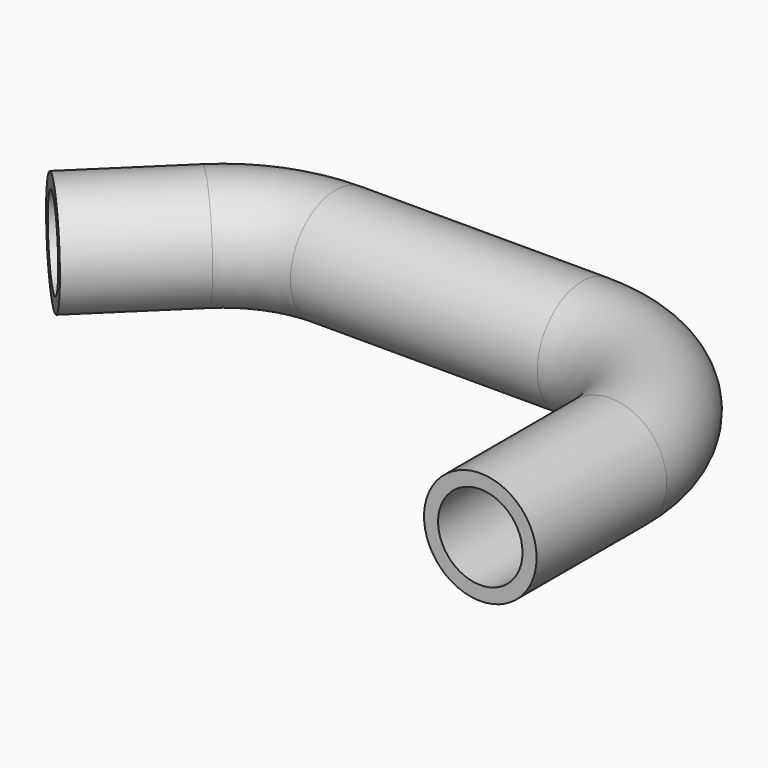
from build123d import *

# Parameters (mm, degrees)
F0_R   = 2.54
F0_R_2 = 1.905


with BuildPart() as f2:
    # F2: sweep along a path in F1
    with BuildLine(Plane.XY) as f2_path:
        Line((0, 0), (0, 7.3384581298))
        ThreePointArc((0, 7.3384581298), (-1.8598719395, 11.8285861903), (-6.35, 13.6884581298))
        Line((-6.35, 13.6884581298), (-12.5316856429, 13.6884581298))
        Line((-12.5316856429, 13.6884581298), (-17.4858820379, 13.6884581298))
        ThreePointArc((-17.4858820379, 13.6884581298), (-19.8729520403, 13.2227080228), (-21.9098557091, 11.8937799577))
        Line((-21.9098557091, 11.8937799577), (-25.7876180112, 8.12782906))
    # F0 (on Front) → F2 (sweep)
    with BuildSketch(Plane.XZ):
        Circle(F0_R)
        Circle(F0_R_2, mode=Mode.SUBTRACT)
    sweep(path=f2_path.line)


solid = f2.part
